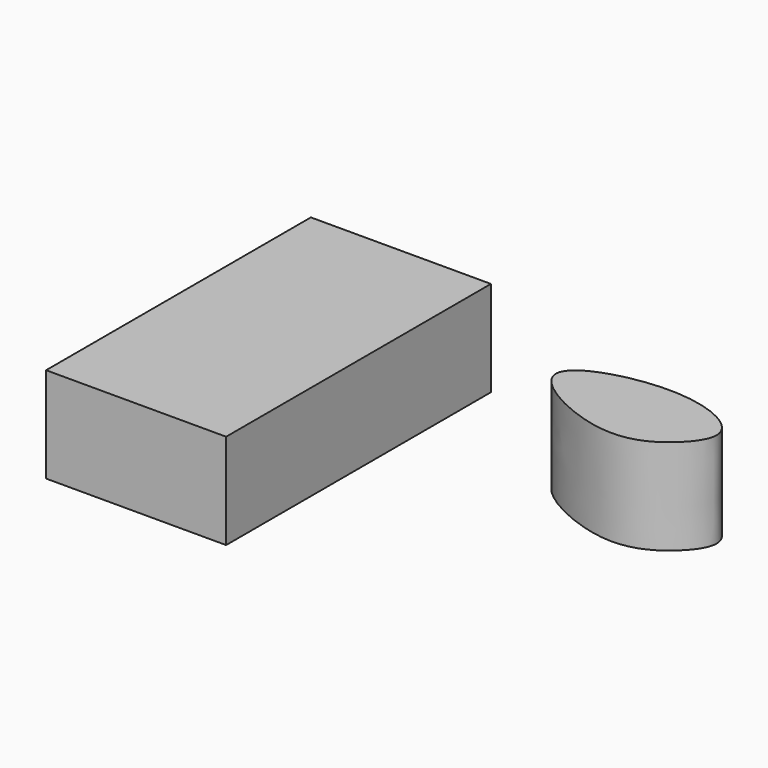
from build123d import *

# Parameters (mm, degrees)
F0_W     = 47.9313209653
F0_H     = 88.1093591452
F1_DEPTH = 25.4
F2_DEPTH = 25.4


with BuildPart() as f1:
    # F0 (on Top) → F1 (new body)
    with BuildSketch(Plane.XY):
        with Locations((-106.5687350929, 10.7631236315)):
            Rectangle(F0_W, F0_H)
    extrude(amount=F1_DEPTH)


with BuildPart() as f2:
    # F0 (on Top) → F2 (new body)
    with BuildSketch(Plane.XY):
        with BuildLine():
            add(Edge.make_bspline(
                [(-46.8000434339, 31.790420413), (-46.6693138878, 37.1332195923), (-21.3611000813, 44.5176922804), (0.6059233997, 33.9893032679), (-8.0878408227, 21.6265576062), (-23.0780288911, 14.1610088325), (-46.9309067974, 26.4421522351), (-46.8000434339, 31.790420413)],
                knots=[0, 0, 0, 0, 0.2313667143, 0.4367519565, 0.5806094528, 0.768396454, 1, 1, 1, 1], degree=3))
        make_face()
    extrude(amount=F2_DEPTH)


solid = Compound([f1.part, f2.part])
